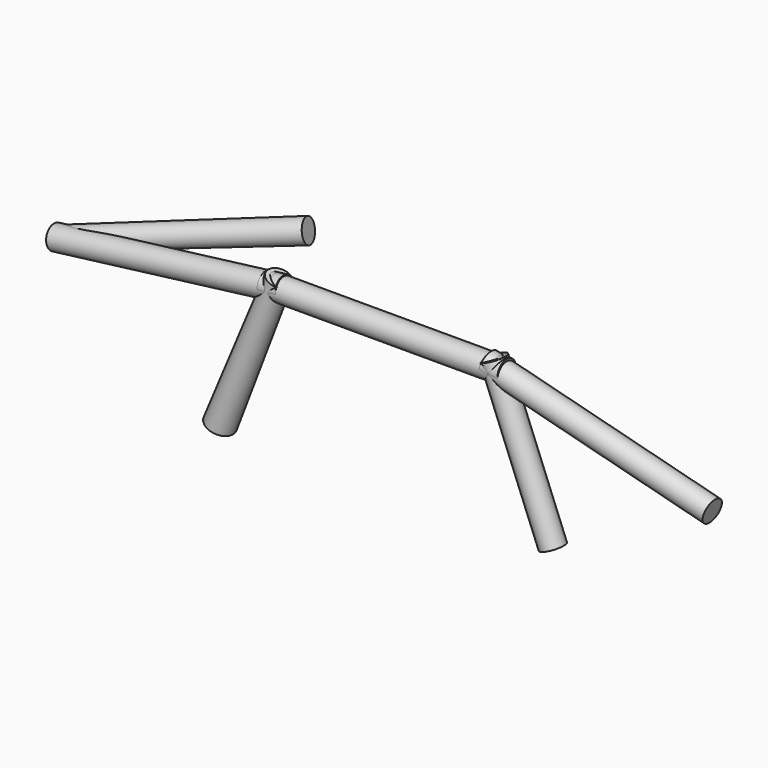
from build123d import *

# Parameters (mm, degrees)
F5_R  = 127
F6_R  = 127
F10_R = 152.4
F11_R = 127
F16_R = 127
F15_R = 127
F20_R = 127
F21_R = 127
F26_R = 127
F25_R = 127
F34_R = 114.3
F33_R = 127


with BuildPart() as f7:
    # F5 (on line) → F7 section 0
    with BuildSketch(Plane(origin=(-3619.4249988375, 0, -456.0046874273), x_dir=(0, -1, 0), z_dir=(-0.9921567416, 0, -0.125))):
        with Locations((0, 152.4)):
            Circle(F5_R)
    # F6 (on line) → F7 section 1
    with BuildSketch(Plane(origin=(-1099.3468750484, 0, -138.5046874273), x_dir=(0, -1, 0), z_dir=(-0.9921567416, 0, -0.125))):
        with Locations((0, 152.4)):
            Circle(F6_R)
    loft()


with BuildPart() as f12:
    # F10 (on line) → F12 section 0
    with BuildSketch(Plane(origin=(-777.7655172414, 0, -1944.4137931034), x_dir=(0.9284766909, 0, -0.3713906764), z_dir=(-0.3713906764, 0, -0.9284766909))):
        with Locations((-1131.9987815273, 0)):
            Circle(F10_R)
    # F11 (on line) → F12 section 1
    with BuildSketch(Plane(origin=(-130.4322245238, 0, -326.0805613095), x_dir=(0.9284766909, 0, -0.3713906764), z_dir=(-0.3713906764, 0, -0.9284766909))):
        with Locations((-1131.9987815273, 0)):
            Circle(F11_R)
    loft()


with BuildPart() as f17:
    # F16 (on line) → F17 section 0
    with BuildSketch(Plane.YZ.offset(-1320.8)):
        Circle(F16_R)
    # F15 (on line) → F17 section 1
    with BuildSketch(Plane.YZ.offset(1320.8)):
        Circle(F15_R)
    loft()


with BuildPart() as f22:
    # F20 (on line) → F22 section 0
    with BuildSketch(Plane(origin=(3503.970647848, 0, -904.721330981), x_dir=(0, 1, 0), z_dir=(0.9682458366, 0, -0.25))):
        with Locations((0, 304.8)):
            Circle(F20_R)
    # F21 (on line) → F22 section 1
    with BuildSketch(Plane(origin=(1044.6262230063, 0, -269.721330981), x_dir=(0, 1, 0), z_dir=(0.9682458366, 0, -0.25))):
        with Locations((0, 304.8)):
            Circle(F21_R)
    loft()


with BuildPart() as f27:
    # F26 (on line) → F27 section 0
    with BuildSketch(Plane(origin=(777.7655172414, 0, -1944.4137931034), x_dir=(0.9284766909, 0, 0.3713906764), z_dir=(0.3713906764, 0, -0.9284766909))):
        with Locations((1131.9987815273, 0)):
            Circle(F26_R)
    # F25 (on line) → F27 section 1
    with BuildSketch(Plane(origin=(130.4322245238, 0, -326.0805613095), x_dir=(0.9284766909, 0, 0.3713906764), z_dir=(0.3713906764, 0, -0.9284766909))):
        with Locations((1131.9987815273, 0)):
            Circle(F25_R)
    loft()


with BuildPart() as f35:
    # F34 (on line) → F35 section 0
    with BuildSketch(Plane(origin=(-3226.5940426286, -877.5166929841, -795.1772426126), x_dir=(0.24789468, -0.966858807, 0.0610923486), z_dir=(-0.9387708644, -0.2553116672, -0.2313551744))):
        with Locations((-907.5954903344, 568.7470925075)):
            Circle(F34_R)
    # F33 (on line) → F35 section 1
    with BuildSketch(Plane(origin=(-985.1190437912, -267.9166929841, -242.7774410223), x_dir=(0.24789468, -0.966858807, 0.0610923486), z_dir=(-0.9387708644, -0.2553116672, -0.2313551744))):
        with Locations((-907.5954903344, 568.7470925075)):
            Circle(F33_R)
    loft()


solid = Compound([f7.part, f12.part, f17.part, f22.part, f27.part, f35.part])
